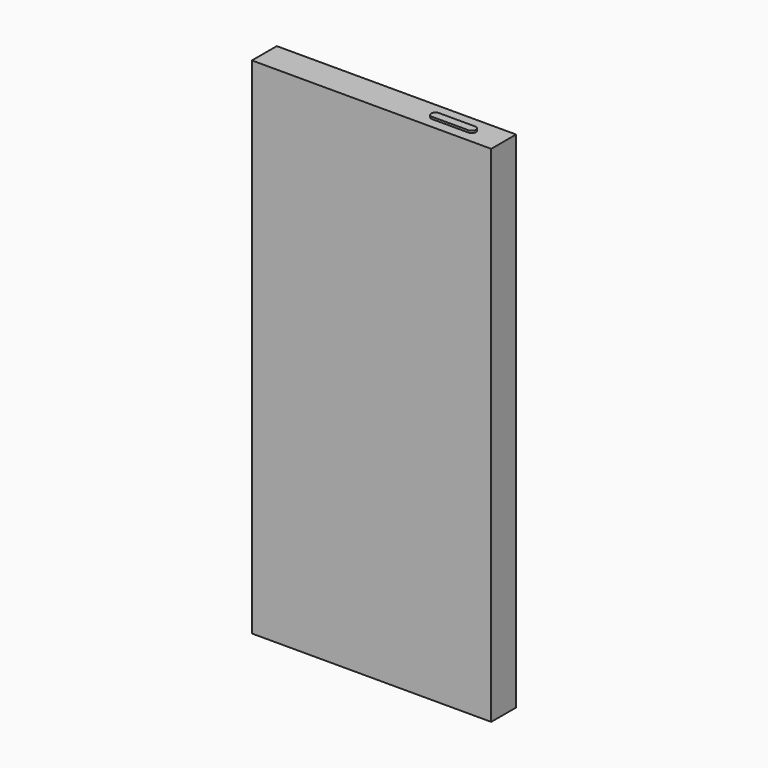
from build123d import *

# Parameters (mm, degrees)
F0_W     = 58.674
F0_H     = 123.698
F1_DEPTH = 7.62
F3_DEPTH = 0.508
F4_R     = 1.905
F5_DEPTH = 19.05
F6_R     = 0.635
F7_DEPTH = 0.508


with BuildPart() as f1:
    # F0 (on Front) → F1 (new body)
    with BuildSketch(Plane.XZ):
        with Locations((-29.337, 61.849)):
            Rectangle(F0_W, F0_H)
    extrude(amount=F1_DEPTH)

    # F2 (on face) → F3 (join)
    with BuildSketch(Plane.XY.offset(123.698)):
        with BuildLine():
            ThreePointArc((-15.494, -4.064), (-15.7915795103, -4.7824204897), (-16.51, -5.08))
            Line((-16.51, -5.08), (-7.62, -5.08))
            ThreePointArc((-7.62, -5.08), (-8.636, -4.064), (-7.62, -3.048))
            Line((-7.62, -3.048), (-16.51, -3.048))
            ThreePointArc((-16.51, -3.048), (-15.7915795103, -3.3455795103), (-15.494, -4.064))
        make_face()
        with BuildLine():
            ThreePointArc((-16.51, -3.048), (-17.526, -4.064), (-16.51, -5.08))
            Line((-16.51, -5.08), (-16.51, -3.048))
        make_face()
        with BuildLine():
            Line((-16.51, -3.048), (-16.51, -5.08))
            ThreePointArc((-16.51, -5.08), (-15.7915795103, -4.7824204897), (-15.494, -4.064))
            ThreePointArc((-15.494, -4.064), (-15.7915795103, -3.3455795103), (-16.51, -3.048))
        make_face()
        with BuildLine():
            ThreePointArc((-7.62, -3.048), (-8.636, -4.064), (-7.62, -5.08))
            Line((-7.62, -5.08), (-7.62, -3.048))
        make_face()
        with BuildLine():
            Line((-7.62, -3.048), (-7.62, -5.08))
            ThreePointArc((-7.62, -5.08), (-6.9015795103, -4.7824204897), (-6.604, -4.064))
            ThreePointArc((-6.604, -4.064), (-6.9015795103, -3.3455795103), (-7.62, -3.048))
        make_face()
    extrude(amount=F3_DEPTH)

    # F4 (on face) → F5 (cut)
    with BuildSketch(Plane(origin=(0, 0, 0), x_dir=(1, 0, 0), z_dir=(0, 0, -1))):
        with Locations((-47.244, 3.81)):
            Circle(F4_R)
    extrude(amount=-F5_DEPTH, mode=Mode.SUBTRACT)

    # F6 (on face) → F7 (cut)
    with BuildSketch(Plane(origin=(0, 0, 0), x_dir=(1, 0, 0), z_dir=(0, 0, -1))):
        with Locations((-43.434, 3.8100001402)):
            Circle(F6_R)
        with Locations((-12.7, 3.81)):
            Circle(F6_R)
        with Locations((-10.668, 3.81)):
            Circle(F6_R)
        with Locations((-8.636, 3.81)):
            Circle(F6_R)
        with Locations((-6.604, 3.81)):
            Circle(F6_R)
    extrude(amount=-F7_DEPTH, mode=Mode.SUBTRACT)


solid = f1.part
